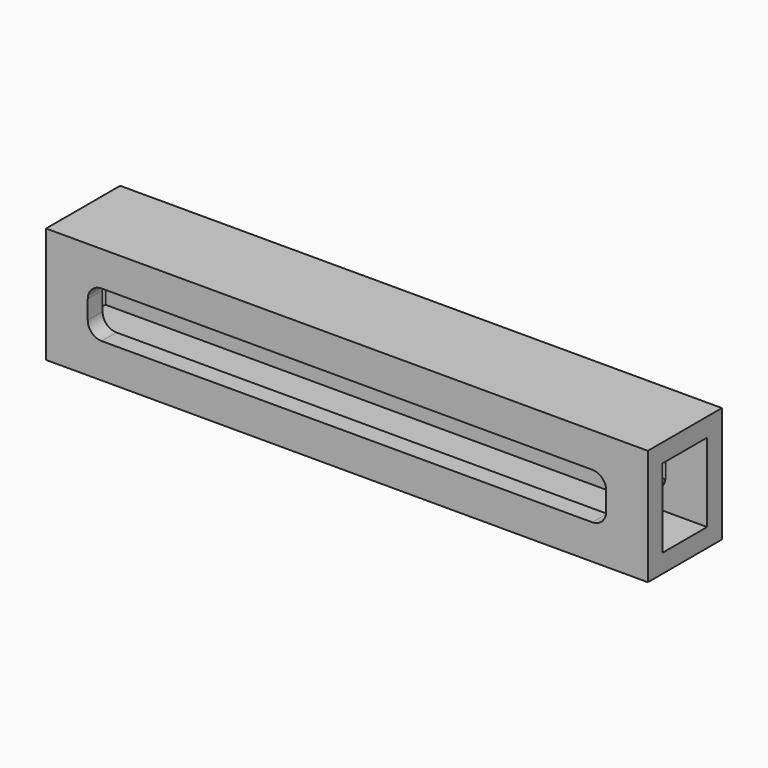
from build123d import *

# Parameters (mm, degrees)
F0_W     = 130
F0_H     = 25
F1_DEPTH = 10
F2_W     = 12
F2_H     = 17
F3_DEPTH = 86.3


with BuildPart() as f1:
    # F0 (on Front) → F1 (new body, symmetric)
    with BuildSketch(Plane.XZ):
        with Locations((-0.511524, -12.5)):
            Rectangle(F0_W, F0_H)
        with BuildLine():
            ThreePointArc((-56.511524, -10.5), (-55.632844, -8.37868), (-53.511524, -7.5))
            Line((-53.511524, -7.5), (52.488476, -7.5))
            ThreePointArc((52.488476, -7.5), (54.609797, -8.37868), (55.488476, -10.5))
            Line((55.488476, -10.5), (55.488476, -14.5))
            ThreePointArc((55.488476, -14.5), (54.609797, -16.62132), (52.488476, -17.5))
            Line((52.488476, -17.5), (-53.511524, -17.5))
            ThreePointArc((-53.511524, -17.5), (-55.632844, -16.62132), (-56.511524, -14.5))
            Line((-56.511524, -14.5), (-56.511524, -10.5))
        make_face(mode=Mode.SUBTRACT)
    extrude(amount=F1_DEPTH, both=True)

    # F2 (on Right) → F3 (cut, symmetric)
    with BuildSketch(Plane.YZ):
        with Locations((0, -12.5)):
            Rectangle(F2_W, F2_H)
    extrude(amount=F3_DEPTH, both=True, mode=Mode.SUBTRACT)


solid = f1.part
